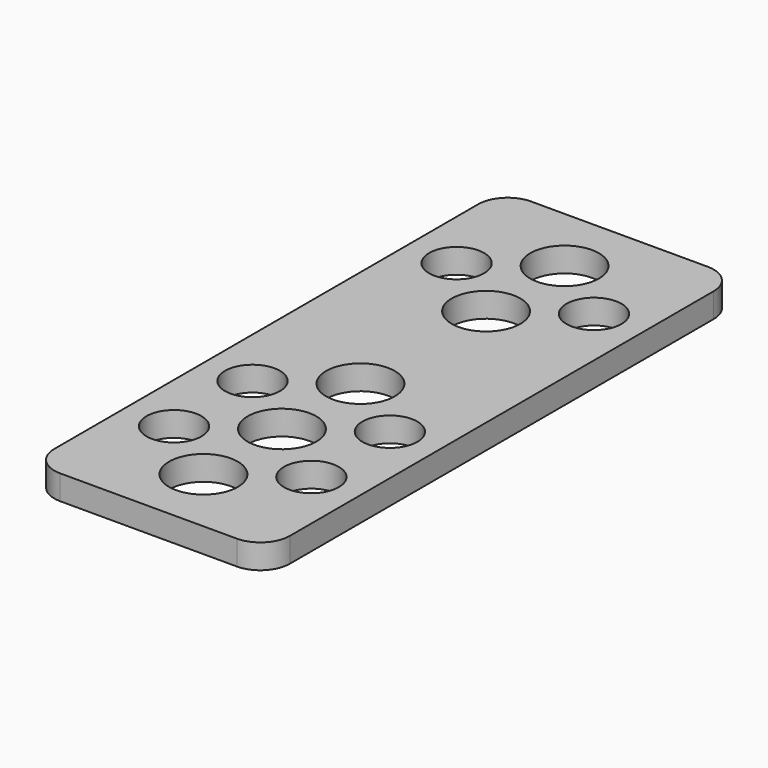
from build123d import *

# Parameters (mm, degrees)
PAD_DEPTH     = 2.5
SKETCH001_R   = 3.5
SKETCH001_R_2 = 2.8
POCKET_DEPTH  = 2.501


with BuildPart() as part:
    # Sketch → Pad (new body)
    with BuildSketch(Plane.XY):
        with BuildLine():
            Line((-9, 30), (9, 30))
            ThreePointArc((12, 27), (11.12132, 29.12132), (9, 30))
            Line((12, 27), (12, -27))
            ThreePointArc((9, -30), (11.12132, -29.12132), (12, -27))
            Line((9, -30), (-9, -30))
            ThreePointArc((-12, -27), (-11.12132, -29.12132), (-9, -30))
            Line((-12, -27), (-12, 27))
            ThreePointArc((-9, 30), (-11.12132, 29.12132), (-12, 27))
        make_face()
    extrude(amount=PAD_DEPTH)

    # Sketch001 (on Face10 of Pad) → Pocket (cut, through all)
    with BuildSketch(Plane.XY.offset(2.5)):
        with Locations((0, 23)):
            Circle(SKETCH001_R)
        with Locations((0, 13)):
            Circle(SKETCH001_R)
        with Locations((0, -13)):
            Circle(SKETCH001_R)
        with Locations((0, -23)):
            Circle(SKETCH001_R)
        with Locations((0, -3)):
            Circle(SKETCH001_R)
        with Locations((-7, 18)):
            Circle(SKETCH001_R_2)
        with Locations((7, 18)):
            Circle(SKETCH001_R_2)
        with Locations((-7, -8)):
            Circle(SKETCH001_R_2)
        with Locations((7, -8)):
            Circle(SKETCH001_R_2)
        with Locations((-7, -18)):
            Circle(SKETCH001_R_2)
        with Locations((7, -18)):
            Circle(SKETCH001_R_2)
    extrude(amount=-POCKET_DEPTH, mode=Mode.SUBTRACT)


solid = part.part
